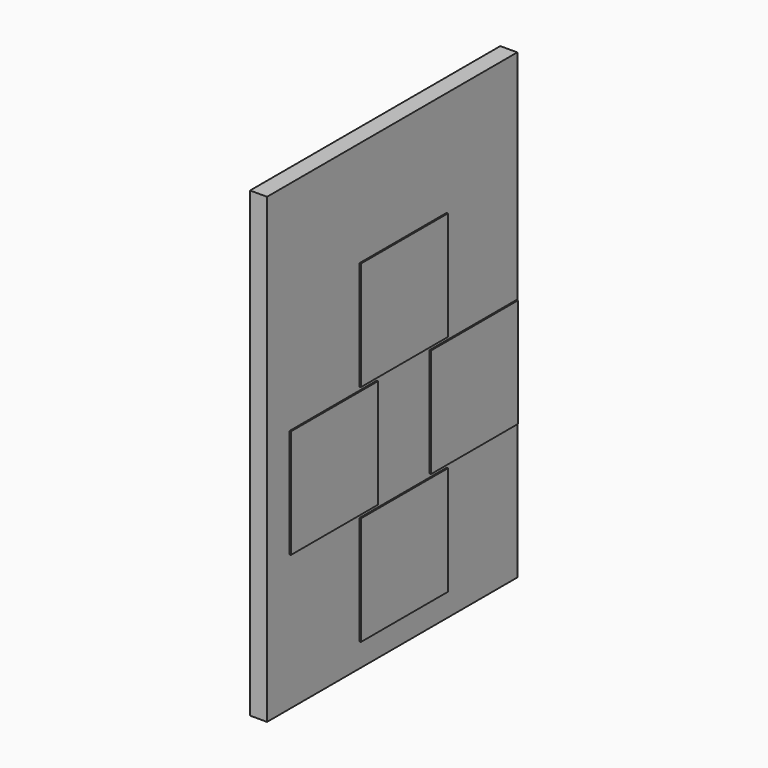
from build123d import *

# Parameters (mm, degrees)
F0_W     = 23
F0_H     = 34
F1_DEPTH = 0.625
F2_W     = 8
F2_H     = 8
F3_DEPTH = 0.1


with BuildPart() as f1:
    # F0 (on Right) → F1 (new body, symmetric)
    with BuildSketch(Plane.YZ):
        Rectangle(F0_W, F0_H)
    extrude(amount=F1_DEPTH, both=True)

    # F2 (on face) → F3 (join)
    with BuildSketch(Plane.YZ.offset(0.625)):
        with Locations((-5.4375, -3)):
            Rectangle(F2_W, F2_H)
        with Locations((7.4375, -3)):
            Rectangle(F2_W, F2_H)
        with Locations((1, 5.25)):
            Rectangle(F2_W, F2_H)
        with Locations((1, -11.25)):
            Rectangle(F2_W, F2_H)
    extrude(amount=F3_DEPTH)


solid = f1.part
